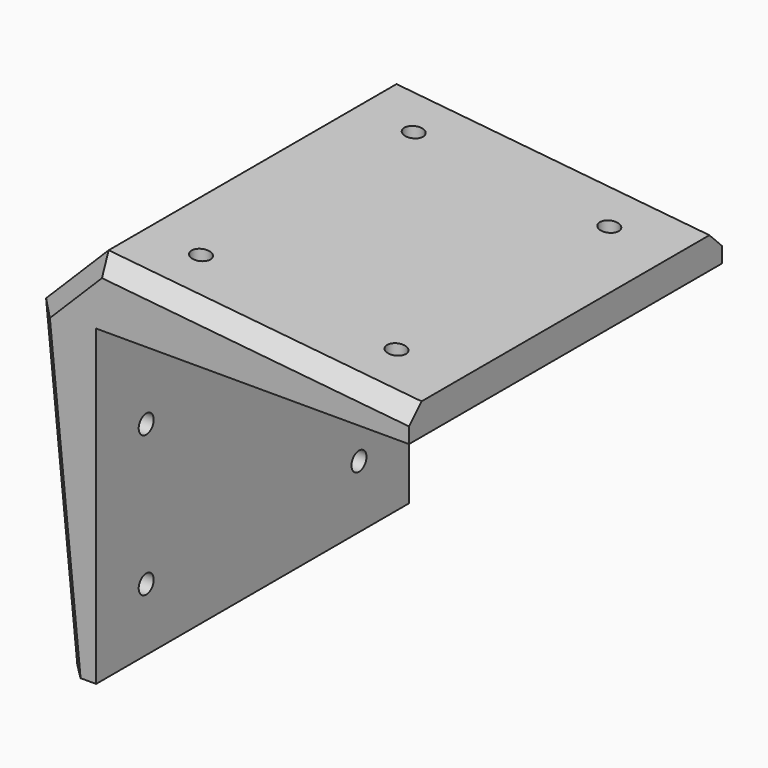
from build123d import *

# Parameters (mm, degrees)
F1_DEPTH = 50
F3_D     = 2.4
F5_D     = 2.4
F6_SIZE  = 2


with BuildPart() as f1:
    # F0 (on Front) → F1 (new body)
    with BuildSketch(Plane.XZ):
        Polygon((0, -40), (0, 0), (40, 0), (40, 4), (0, 8), (-8, 0), (-4, -40), align=None)
    extrude(amount=F1_DEPTH)

    # F3 (through all)
    with Locations(Plane(origin=(0, 0, 0), x_dir=(1, 0, 0), z_dir=(0, 0, -1))):
        with Locations((32, 42), (32, 8), (7, 8), (7, 42)):
            Hole(F3_D / 2)

    # F5 (through all)
    with Locations(Plane.YZ):
        with Locations((-42, -32), (-42, -14), (-8, -32), (-8, -14)):
            Hole(F5_D / 2)

    # F6
    f6_edges = [f1.edges().sort_by_distance(p)[0] for p in [
        (20, -50, 6),
        (-4, -50, 4),
        (-6, -50, -20),
        (-6, 0, -20),
        (20, 0, 6),
        (-4, 0, 4),
    ]]
    chamfer(f6_edges, length=F6_SIZE)


solid = f1.part
